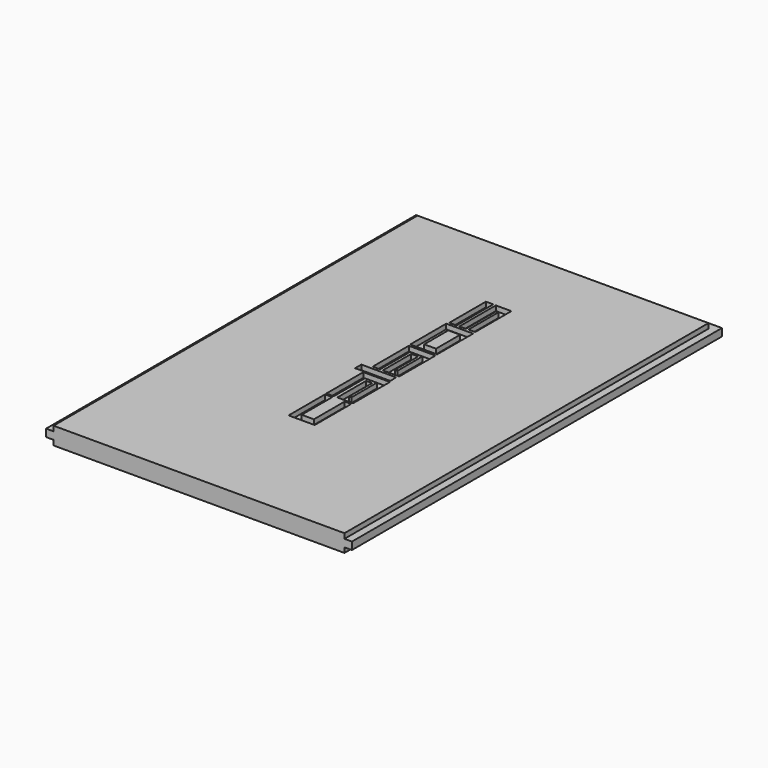
from build123d import *

# Parameters (mm, degrees)
SKETCH_W      = 61.5
SKETCH_H      = 93
PAD_DEPTH     = 1.5
SKETCH001_W   = 58.5
SKETCH001_H   = 91.5
PAD001_DEPTH  = 1
SKETCH002_W   = 58.5
SKETCH002_H   = 91.5
PAD002_DEPTH  = 1
SKETCH003_W   = 5.409756
SKETCH003_H   = 9.051441
SKETCH003_W_2 = 2.375015
SKETCH003_H_2 = 6.06948
SKETCH003_W_3 = 1.477786
SKETCH003_H_3 = 9.209776
POCKET_DEPTH  = 1


with BuildPart() as part:
    # Sketch → Pad (new body)
    with BuildSketch(Plane.XY):
        Rectangle(SKETCH_W, SKETCH_H)
    extrude(amount=PAD_DEPTH)

    # Sketch001 → Pad001 (new body)
    with BuildSketch(Plane.XY.offset(1.5)):
        with Locations((0, -0.75)):
            Rectangle(SKETCH001_W, SKETCH001_H)
    extrude(amount=PAD001_DEPTH)

    # Sketch002 → Pad002 (new body)
    with BuildSketch(Plane(origin=(0, 0, 0), x_dir=(1, 0, 0), z_dir=(0, 0, -1))):
        with Locations((0, 0.75)):
            Rectangle(SKETCH002_W, SKETCH002_H)
    extrude(amount=PAD002_DEPTH)

    # Sketch003 → Pocket (cut)
    with BuildSketch(Plane.XY.offset(2.5)):
        Polygon((-2.621542, -11.556755), (-1.143755, -11.556755), (-1.143755, -19.262356), (1.310425, -19.262356), (1.310425, -11.530366), (2.629878, -11.530366), (2.629878, -20.713753), (-2.621542, -20.713753), align=None)
        Polygon((-2.647752, -11.18105), (-1.143755, -11.18105), (-1.143755, -3.376151), (1.257648, -3.376151), (1.257648, -9.735911), (0.756256, -9.735911), (0.756256, -3.930321), (-0.45764, -3.930321), (-0.45764, -11.16092), (2.709045, -11.16092), (2.709045, -1.892107), (-2.647752, -1.892107), align=None)
        Polygon((-4.495397, -0.064355), (2.471311, -0.064355), (2.550478, -1.647698), (-4.495397, -1.647698), align=None)
        Polygon((-2.675537, 0.499041), (-1.196766, 0.499041), (-1.196766, 8.063471), (1.257415, 8.063471), (1.257415, 1.835656), (0.756023, 1.835656), (0.756023, 7.641245), (-0.642597, 7.641245), (-0.642597, 0.489815), (2.682424, 0.489815), (2.682424, 9.576872), (-2.675537, 9.576872), align=None)
        with Locations((-0.076145, 14.5865)):
            Rectangle(SKETCH003_W, SKETCH003_H)
        with Locations((0.095295, 14.504397)):
            Rectangle(SKETCH003_W_2, SKETCH003_H_2, mode=Mode.SUBTRACT)
        with Locations((-1.857495, 24.255149)):
            Rectangle(SKETCH003_W_3, SKETCH003_H_3)
        Polygon((-0.59082, 19.571095), (-0.59082, 28.833649), (2.549475, 28.833649), (2.549475, 19.729427), (1.203635, 19.729427), (1.203635, 27.250305), (0.728631, 27.250305), (0.728631, 19.729427), align=None)
    extrude(amount=-POCKET_DEPTH, mode=Mode.SUBTRACT)


solid = part.part
